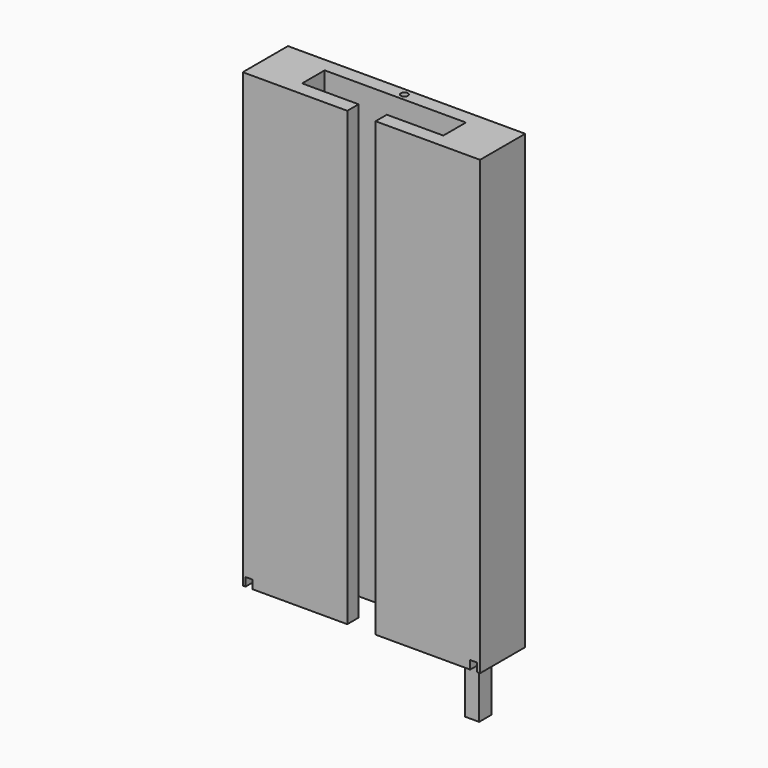
from build123d import *

# Parameters (mm, degrees)
F0_R      = 1.5875
F1_DEPTH  = 203.2
F2_W      = 3.81
F2_H      = 4.445
F3_DEPTH  = 25.4
F5_DEPTH  = 25.4
F6_W      = 6.858
F6_H      = 6.858
F7_DEPTH  = 25.4
F6_W_2    = 6.35
F8_DEPTH  = 25.4
F9_W      = 3.175
F9_H      = 25.4
F10_DEPTH = 3.81
F11_W     = 3.175
F11_H     = 25.4
F12_DEPTH = 3.81


with BuildPart() as f1:
    # F0 (on Top) → F1 (new body)
    with BuildSketch(Plane.XY):
        Polygon((46.99, 34.29), (-59.69, 34.29), (-59.69, 8.89), (-12.7, 8.89), (-12.7, 15.24), (-38.1, 15.24), (-38.1, 27.94), (25.4, 27.94), (25.4, 15.24), (0, 15.24), (0, 8.89), (46.99, 8.89), align=None)
        with Locations((-4.7625, 31.077515)):
            Circle(F0_R, mode=Mode.SUBTRACT)
    extrude(amount=F1_DEPTH)

    # F2 (on face) → F3 (cut)
    with BuildSketch(Plane(origin=(0, 34.29, 0), x_dir=(-1, 0, 0), z_dir=(0, 1, 0))):
        with Locations((56.515, 205.4225)):
            Rectangle(F2_W, F2_H)
    extrude(amount=-F3_DEPTH, mode=Mode.SUBTRACT)

    # F4 (on face) → F5 (cut)
    with BuildSketch(Plane(origin=(0, 34.29, 0), x_dir=(-1, 0, 0), z_dir=(0, 1, 0))):
        Polygon((-41.91, 207.644923), (-45.72, 207.644923), (-45.72, 203.2), (-41.928444, 203.2), align=None)
    extrude(amount=-F5_DEPTH, mode=Mode.SUBTRACT)

    # F6 (on face) → F7 (cut)
    with BuildSketch(Plane(origin=(0, 0, 0), x_dir=(1, 0, 0), z_dir=(0, 0, -1))):
        with Locations((-49.149, -21.336)):
            Rectangle(F6_W, F6_H)
    extrude(amount=-F7_DEPTH, mode=Mode.SUBTRACT)

    # F6 (on face) → F8 (join)
    with BuildSketch(Plane(origin=(0, 0, 0), x_dir=(1, 0, 0), z_dir=(0, 0, -1))):
        with Locations((36.195, -21.336)):
            Rectangle(F6_W_2, F6_H)
    extrude(amount=F8_DEPTH)

    # F9 (on face) → F10 (cut)
    with BuildSketch(Plane(origin=(0, 0, 0), x_dir=(1, 0, 0), z_dir=(0, 0, -1))):
        with Locations((-56.8325, -21.59)):
            Rectangle(F9_W, F9_H)
    extrude(amount=-F10_DEPTH, mode=Mode.SUBTRACT)

    # F11 (on face) → F12 (cut)
    with BuildSketch(Plane(origin=(0, 0, 0), x_dir=(1, 0, 0), z_dir=(0, 0, -1))):
        with Locations((44.1325, -21.59)):
            Rectangle(F11_W, F11_H)
    extrude(amount=-F12_DEPTH, mode=Mode.SUBTRACT)


solid = f1.part
